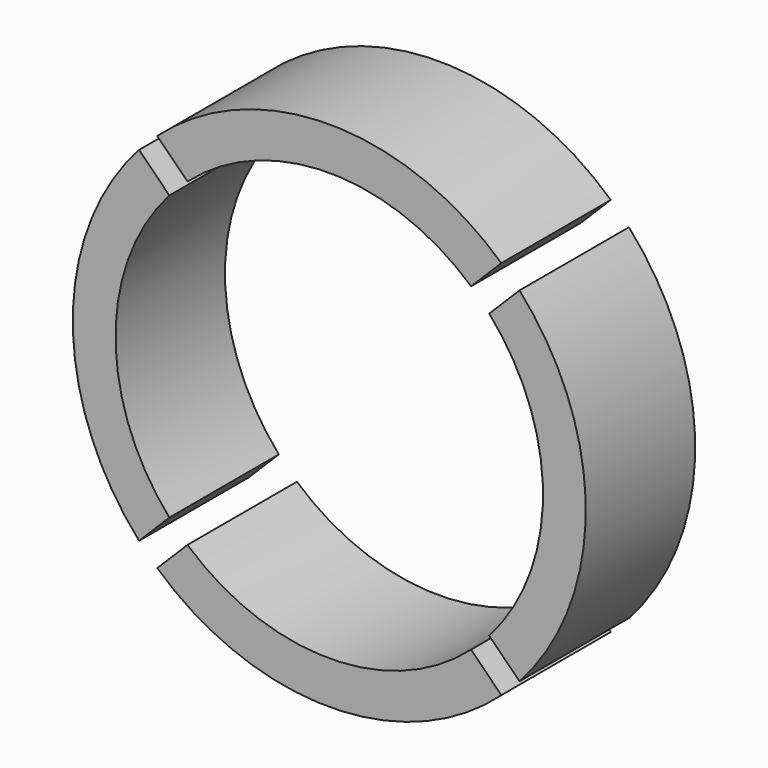
from build123d import *

# Parameters (mm, degrees)
SKETCH_R             = 15
PAD_DEPTH            = 8
SKETCH001_R          = 12.5
POCKET_DEPTH         = 8.001
SKETCH002_W          = 1.5
SKETCH002_H          = 37.74
SKETCH002_W_2        = 34.86
SKETCH002_H_2        = 1.5
POCKET001_DEPTH      = 8.001
BODY_PLACEMENT_ANGLE = 45


with BuildPart() as part:
    # Sketch → Pad (new body)
    with BuildSketch(Plane.XZ):
        Circle(SKETCH_R)
    extrude(amount=PAD_DEPTH)

    # Sketch001 (on Face3 of Pad) → Pocket (cut, through all)
    with BuildSketch(Plane.XZ.offset(8)):
        Circle(SKETCH001_R)
    extrude(amount=-POCKET_DEPTH, mode=Mode.SUBTRACT)

    # Sketch002 (on Face3 of Pocket) → Pocket001 (cut, through all)
    with BuildSketch(Plane.XZ.offset(8)):
        Rectangle(SKETCH002_W, SKETCH002_H)
        with Locations((0.3, 0)):
            Rectangle(SKETCH002_W_2, SKETCH002_H_2)
    extrude(amount=-POCKET001_DEPTH, mode=Mode.SUBTRACT)


with BuildPart() as part_1:
    # Body placement: moved
    add(part.part.moved(Location((0, 15, 0))).rotate(Axis((0, 15, 0), (0, 1, 0)), BODY_PLACEMENT_ANGLE))


solid = part_1.part
